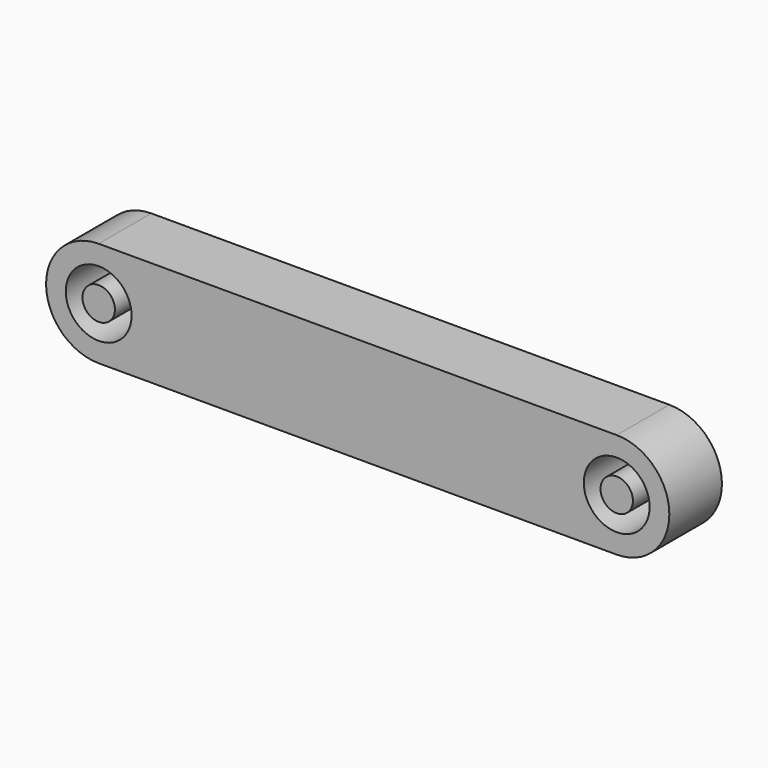
from build123d import *

# Parameters (mm, degrees)
F0_R     = 2.5019
F0_R_2   = 1.2319
F1_DEPTH = 2.5


with BuildPart() as f1:
    # F0 (on Front) → F1 (new body, symmetric)
    with BuildSketch(Plane.XZ):
        with BuildLine():
            ThreePointArc((19.6977, -4.0005), (23.6982, 0), (19.6977, 4.0005))
            Line((19.6977, 4.0005), (-19.6977, 4.0005))
            ThreePointArc((-19.6977, 4.0005), (-23.6982, 0), (-19.6977, -4.0005))
            Line((-19.6977, -4.0005), (19.6977, -4.0005))
        make_face()
        with Locations((-19.6977, 0)):
            Circle(F0_R, mode=Mode.SUBTRACT)
        with Locations((19.6977, 0)):
            Circle(F0_R, mode=Mode.SUBTRACT)
        with Locations((-19.6977, 0)):
            Circle(F0_R_2)
        with Locations((19.6977, 0)):
            Circle(F0_R_2)
    extrude(amount=F1_DEPTH, both=True)


solid = f1.part
